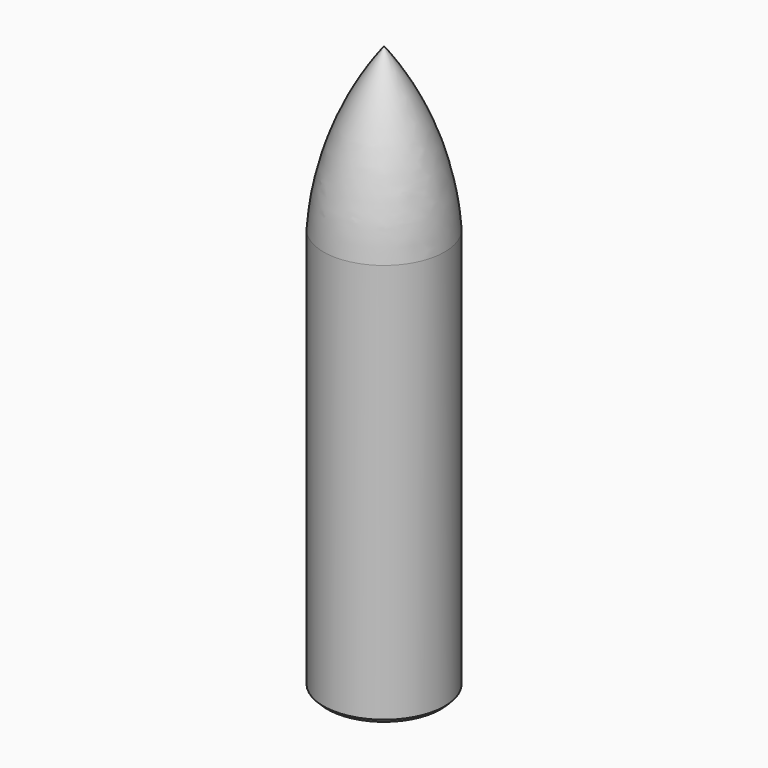
from build123d import *

# Parameters (mm, degrees)
F2_R     = 7.5
F3_DEPTH = 50
F4_SIZE  = 0.5


with BuildPart() as f1:
    # F0 (on Front) → F1 (revolve)
    with BuildSketch(Plane.XZ):
        with BuildLine():
            Line((0, 20), (0, 0))
            Line((0, 0), (7.5, 0))
            ThreePointArc((7.5, 0), (5.221269, 10.551726), (0, 20))
        make_face()
    revolve(axis=Axis((0, 0, 10), (0, 0, 1)))

    # F2 (on Top) → F3 (join)
    with BuildSketch(Plane.XY):
        Circle(F2_R)
    extrude(amount=-F3_DEPTH)

    # F4
    f4_edges = [f1.edges().sort_by_distance(p)[0] for p in [
        (-7.5, 0, -50),
    ]]
    chamfer(f4_edges, length=F4_SIZE)


solid = f1.part
